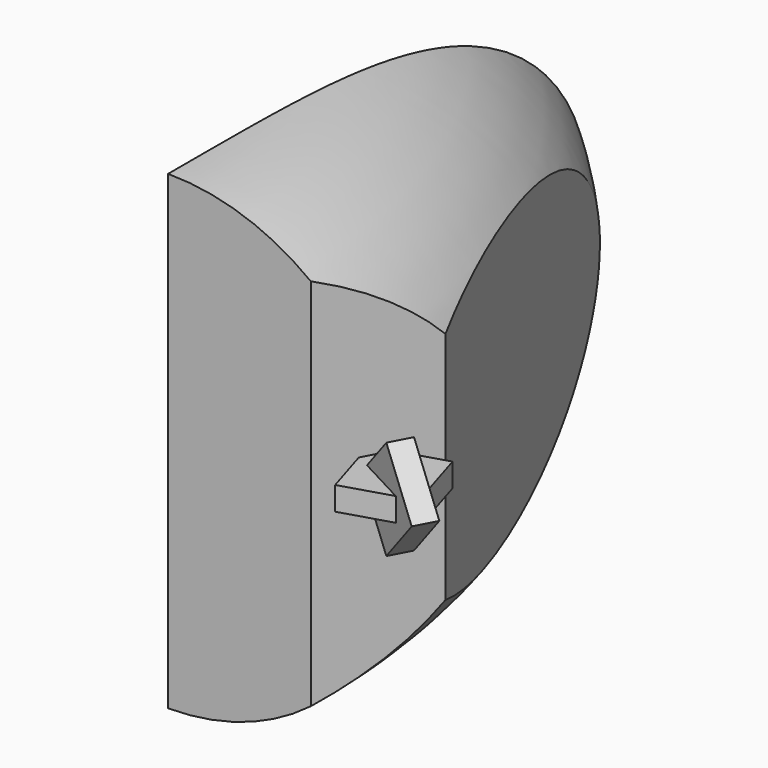
from build123d import *

# Parameters (mm, degrees)
BOX005_W               = 10
BOX005_H               = 20
BOX005_DEPTH           = 40
BOX005_PLACEMENT_ANGLE = -28
BOX003_W               = 20
BOX003_H               = 2.1
BOX003_DEPTH           = 9.3
BOX003_PLACEMENT_ANGLE = -50
BOX004_W               = 20
BOX004_H               = 2.1
BOX004_DEPTH           = 9.3
BOX002_W               = 20
BOX002_H               = 2.1
BOX002_DEPTH           = 9.3
BOX001_W               = 7
BOX001_H               = 44
BOX001_DEPTH           = 52
BOX001_PLACEMENT_ANGLE = 21
BOX_W                  = 30
BOX_H                  = 66
BOX_DEPTH              = 68
TORUS_R                = 20
TORUS_ANGLE            = 50
CHAMFER_SIZE           = 1
BOX006_W               = 6
BOX006_H               = 2
BOX006_DEPTH           = 6
BOX006_ROLL_ANGLE      = 4e-05
BOX006_PITCH_ANGLE     = 44.999969
BOX006_PLACEMENT_ANGLE = -27.99994
BOX007_W               = 6
BOX007_H               = 6
BOX007_DEPTH           = 2
BOX007_PLACEMENT_ANGLE = 17


with BuildPart() as cubo:
    # Box005 → Box005 (new body)
    with BuildSketch(Plane.XY):
        with Locations((5, 10)):
            Rectangle(BOX005_W, BOX005_H)
    extrude(amount=BOX005_DEPTH)


with BuildPart() as cubo_1:
    # Box005 placement: moved
    add(cubo.part.moved(Location((50, -4, -21))).rotate(Axis((50, -4, -21), (0, 0, 1)), BOX005_PLACEMENT_ANGLE))


with BuildPart() as obj1:
    # Box003 → Box003 (new body)
    with BuildSketch(Plane.XY):
        with Locations((10, 1.05)):
            Rectangle(BOX003_W, BOX003_H)
    extrude(amount=BOX003_DEPTH)


with BuildPart() as obj1_1:
    # Box003 placement: moved
    add(obj1.part.moved(Location((32, 44, -4.5))).rotate(Axis((32, 44, -4.5), (0, 0, 1)), BOX003_PLACEMENT_ANGLE))


with BuildPart() as obj2:
    # Box004 → Box004 (new body)
    with BuildSketch(Plane(origin=(30, 5, 7), x_dir=(1, 0, 0), z_dir=(0, 0, 1))):
        with Locations((10, 1.05)):
            Rectangle(BOX004_W, BOX004_H)
    extrude(amount=BOX004_DEPTH)


with BuildPart() as obj3:
    # Box002 → Box002 (new body)
    with BuildSketch(Plane(origin=(30, 5, -16), x_dir=(1, 0, 0), z_dir=(0, 0, 1))):
        with Locations((10, 1.05)):
            Rectangle(BOX002_W, BOX002_H)
    extrude(amount=BOX002_DEPTH)

    # Fusion: union obj1, obj2
    add(obj1_1.part)
    add(obj2.part)


with BuildPart() as cube001:
    # Box001 → Box001 (new body)
    with BuildSketch(Plane.XY):
        with Locations((3.5, 22)):
            Rectangle(BOX001_W, BOX001_H)
    extrude(amount=BOX001_DEPTH)


with BuildPart() as cube001_1:
    # Box001 placement: moved
    add(cube001.part.moved(Location((60, 0, -25))).rotate(Axis((60, 0, -25), (0, 0, 1)), BOX001_PLACEMENT_ANGLE))


with BuildPart() as cube:
    # Box → Box (new body)
    with BuildSketch(Plane(origin=(10, -1, -38), x_dir=(1, 0, 0), z_dir=(0, 0, 1))):
        with Locations((15, 33)):
            Rectangle(BOX_W, BOX_H)
    extrude(amount=BOX_DEPTH)


with BuildPart() as obj4:
    # Torus → Torus (revolve)
    with BuildSketch(Plane.XZ):
        with Locations((40, 0)):
            Circle(TORUS_R)
    revolve(axis=Axis((0, 0, 0), (0, 0, 1)), revolution_arc=TORUS_ANGLE)

    # Cut: cut Cube
    add(cube.part, mode=Mode.SUBTRACT)

    # Cut001: cut Cube001
    add(cube001_1.part, mode=Mode.SUBTRACT)

    # Cut002: cut obj3
    add(obj3.part, mode=Mode.SUBTRACT)

    # Chamfer
    chamfer_edges = [obj4.edges().sort_by_distance(p)[0] for p in [
        (40, 7.1, 11.65),
        (40, 6.05, 16.3),
        (40, 5, 11.65),
        (40, 6.05, 7),
        (40, 36.099481, 4.8),
        (40, 34.465971, 0.15),
        (40, 36.099481, -4.5),
        (40, 37.732991, 0.15),
        (40, 7.1, -11.35),
        (40, 6.05, -6.7),
        (40, 5, -11.35),
        (40, 6.05, -16),
    ]]
    chamfer(chamfer_edges, length=CHAMFER_SIZE)

    # Cut003: cut Cubo
    add(cubo_1.part, mode=Mode.SUBTRACT)


with BuildPart() as cubo001:
    # Box006 → Box006 (new body)
    with BuildSketch(Plane.XY):
        with Locations((3, 1)):
            Rectangle(BOX006_W, BOX006_H)
    extrude(amount=BOX006_DEPTH)


with BuildPart() as cubo001_1:
    # Box006 roll: moved
    add(cubo001.part.rotate(Axis((0, 0, 0), (1, 0, 0)), BOX006_ROLL_ANGLE))


with BuildPart() as cubo001_2:
    # Box006 pitch: moved
    add(cubo001_1.part.rotate(Axis((0, 0, 0), (0, 1, 0)), BOX006_PITCH_ANGLE))


with BuildPart() as cubo001_3:
    # Box006 placement: moved
    add(cubo001_2.part.moved(Location((54, 3, 1))).rotate(Axis((54, 3, 1), (0, 0, 1)), BOX006_PLACEMENT_ANGLE))


with BuildPart() as cubo002:
    # Box007 → Box007 (new body)
    with BuildSketch(Plane.XY):
        with Locations((3, 3)):
            Rectangle(BOX007_W, BOX007_H)
    extrude(amount=BOX007_DEPTH)


with BuildPart() as cubo002_1:
    # Box007 placement: moved
    add(cubo002.part.moved(Location((55, -1, 0))).rotate(Axis((55, -1, 0), (0, 0, 1)), BOX007_PLACEMENT_ANGLE))


solid = Compound([obj4.part, cubo001_3.part, cubo002_1.part])
